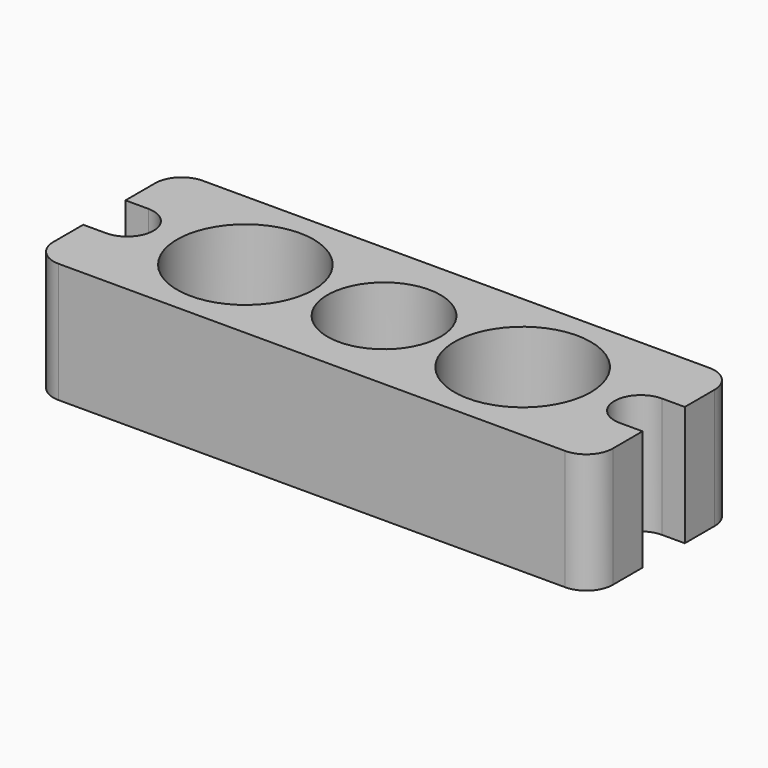
from build123d import *

# Parameters (mm, degrees)
F0_R     = 7.217521
F0_R_2   = 5.984907
F1_DEPTH = 12.7


with BuildPart() as f1:
    # F0 (on Top) → F1 (new body)
    with BuildSketch(Plane.XY):
        with BuildLine():
            ThreePointArc((-29.591, -6.731), (-28.772656, -8.706656), (-26.797, -9.525))
            Line((-26.797, -9.525), (26.797, -9.525))
            ThreePointArc((26.797, -9.525), (28.772656, -8.706656), (29.591, -6.731))
            Line((29.591, -6.731), (29.591, -2.794))
            Line((29.591, -2.794), (27.178, -2.794))
            ThreePointArc((27.178, -2.794), (24.384, 0), (27.178, 2.794))
            Line((27.178, 2.794), (29.591, 2.794))
            Line((29.591, 2.794), (29.591, 6.731))
            ThreePointArc((29.591, 6.731), (28.772656, 8.706656), (26.797, 9.525))
            Line((26.797, 9.525), (-26.797, 9.525))
            ThreePointArc((-26.797, 9.525), (-28.772656, 8.706656), (-29.591, 6.731))
            Line((-29.591, 6.731), (-29.591, 2.794))
            Line((-29.591, 2.794), (-27.178, 2.794))
            ThreePointArc((-27.178, 2.794), (-24.384, 0), (-27.178, -2.794))
            Line((-27.178, -2.794), (-29.591, -2.794))
            Line((-29.591, -2.794), (-29.591, -6.731))
        make_face()
        with Locations((-14.667979, 0)):
            Circle(F0_R, mode=Mode.SUBTRACT)
        Circle(F0_R_2, mode=Mode.SUBTRACT)
        with Locations((14.667979, 0)):
            Circle(F0_R, mode=Mode.SUBTRACT)
    extrude(amount=F1_DEPTH)


solid = f1.part
